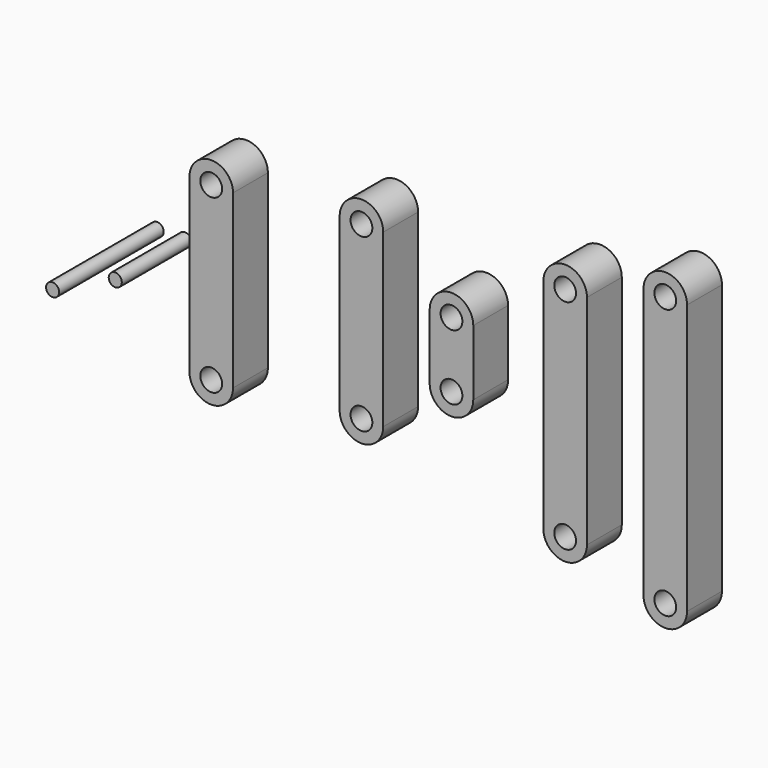
from build123d import *

# Parameters (mm, degrees)
F1_R      = 2.5
F2_DEPTH  = 5
F3_R      = 2.5
F4_DEPTH  = 5
F5_R      = 2.5
F6_DEPTH  = 10
F7_R      = 2.5
F8_DEPTH  = 10
F9_R      = 2.5
F10_DEPTH = 10
F11_R     = 1.5
F12_DEPTH = 20
F13_R     = 1.5
F14_DEPTH = 30


with BuildPart() as f2:
    # F1 (on Front) → F2 (new body, symmetric)
    with BuildSketch(Plane.XZ):
        with BuildLine():
            Line((5, 0), (5, 7.5))
            ThreePointArc((5, 7.5), (0, 12.5), (-5, 7.5))
            Line((-5, 7.5), (-5, 0))
            Line((-5, 0), (-5, -7.5))
            ThreePointArc((-5, -7.5), (0, -12.5), (5, -7.5))
            Line((5, -7.5), (5, 0))
        make_face()
        with Locations((0, -7.5)):
            Circle(F1_R, mode=Mode.SUBTRACT)
        with Locations((0, 7.5)):
            Circle(F1_R, mode=Mode.SUBTRACT)
    extrude(amount=F2_DEPTH, both=True)


with BuildPart() as f4:
    # F3 (on Front) → F4 (new body, symmetric)
    with BuildSketch(Plane.XZ):
        with BuildLine():
            Line((-15.6613364816, 0), (-15.6613364816, 19.65))
            ThreePointArc((-15.6613364816, 19.65), (-20.6613364816, 24.65), (-25.6613364816, 19.65))
            Line((-25.6613364816, 19.65), (-25.6613364816, 0))
            Line((-25.6613364816, 0), (-25.6613364816, -19.65))
            ThreePointArc((-25.6613364816, -19.65), (-20.6613364816, -24.65), (-15.6613364816, -19.65))
            Line((-15.6613364816, -19.65), (-15.6613364816, 0))
        make_face()
        with Locations((-20.6613364816, -19.65)):
            Circle(F3_R, mode=Mode.SUBTRACT)
        with Locations((-20.6613364816, 19.65)):
            Circle(F3_R, mode=Mode.SUBTRACT)
    extrude(amount=F4_DEPTH, both=True)


with BuildPart() as f6:
    # F5 (on Front) → F6 (new body)
    with BuildSketch(Plane.XZ):
        with BuildLine():
            Line((-46.1367060244, 0), (-46.1367060244, 19.7))
            ThreePointArc((-46.1367060244, 19.7), (-51.1367060244, 24.7), (-56.1367060244, 19.7))
            Line((-56.1367060244, 19.7), (-56.1367060244, 0))
            Line((-56.1367060244, 0), (-56.1367060244, -19.7))
            ThreePointArc((-56.1367060244, -19.7), (-51.1367060244, -24.7), (-46.1367060244, -19.7))
            Line((-46.1367060244, -19.7), (-46.1367060244, 0))
        make_face()
        with Locations((-51.1367060244, -19.7)):
            Circle(F5_R, mode=Mode.SUBTRACT)
        with Locations((-51.1367060244, 19.7)):
            Circle(F5_R, mode=Mode.SUBTRACT)
    extrude(amount=F6_DEPTH)


with BuildPart() as f8:
    # F7 (on Front) → F8 (new body)
    with BuildSketch(Plane.XZ):
        with BuildLine():
            Line((35.0832204521, 0), (35.0832204521, 25))
            ThreePointArc((35.0832204521, 25), (30.0832204521, 30), (25.0832204521, 25))
            Line((25.0832204521, 25), (25.0832204521, 0))
            Line((25.0832204521, 0), (25.0832204521, -25))
            ThreePointArc((25.0832204521, -25), (30.0832204521, -30), (35.0832204521, -25))
            Line((35.0832204521, -25), (35.0832204521, 0))
        make_face()
        with Locations((30.0832204521, -25)):
            Circle(F7_R, mode=Mode.SUBTRACT)
        with Locations((30.0832204521, 25)):
            Circle(F7_R, mode=Mode.SUBTRACT)
    extrude(amount=F8_DEPTH)


with BuildPart() as f10:
    # F9 (on Front) → F10 (new body)
    with BuildSketch(Plane.XZ):
        with BuildLine():
            Line((58.0614554882, 0), (58.0614554882, 30.95))
            ThreePointArc((58.0614554882, 30.95), (53.0614554882, 35.95), (48.0614554882, 30.95))
            Line((48.0614554882, 30.95), (48.0614554882, 0))
            Line((48.0614554882, 0), (48.0614554882, -30.95))
            ThreePointArc((48.0614554882, -30.95), (53.0614554882, -35.95), (58.0614554882, -30.95))
            Line((58.0614554882, -30.95), (58.0614554882, 0))
        make_face()
        with Locations((53.0614554882, -30.95)):
            Circle(F9_R, mode=Mode.SUBTRACT)
        with Locations((53.0614554882, 30.95)):
            Circle(F9_R, mode=Mode.SUBTRACT)
    extrude(amount=F10_DEPTH)


with BuildPart() as f12:
    # F11 (on Front) → F12 (new body)
    with BuildSketch(Plane.XZ):
        with Locations((-65.1575699449, 0)):
            Circle(F11_R)
    extrude(amount=F12_DEPTH)


with BuildPart() as f14:
    # F13 (on Front) → F14 (new body)
    with BuildSketch(Plane.XZ):
        with Locations((-71.5364515781, 0)):
            Circle(F13_R)
    extrude(amount=F14_DEPTH)


solid = Compound([f2.part, f4.part, f6.part, f8.part, f10.part, f12.part, f14.part])
